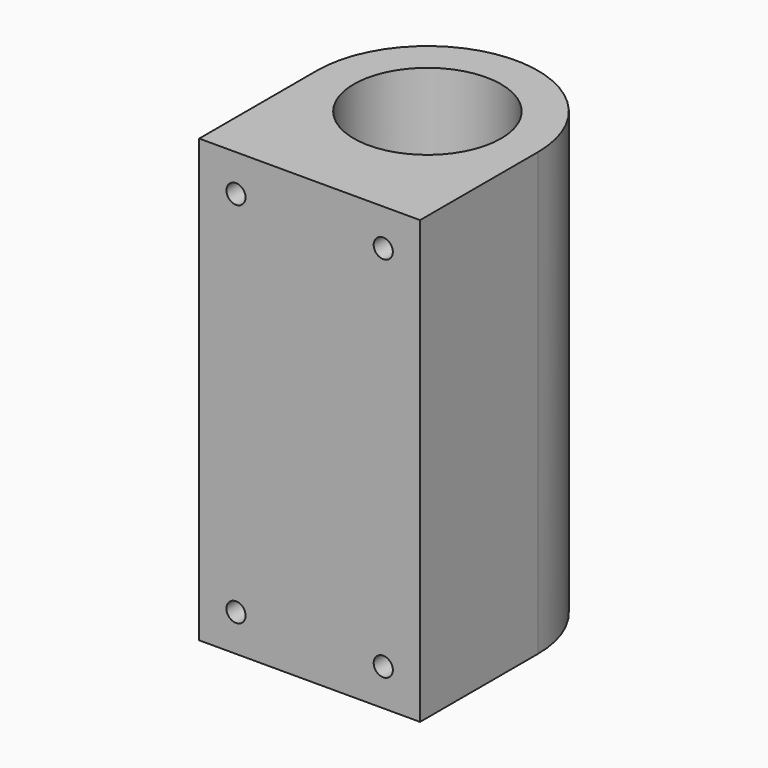
from build123d import *

# Parameters (mm, degrees)
F1_DEPTH = 38.1
F2_R     = 1.651
F3_DEPTH = 12.7


with BuildPart() as f1:
    # F0 (on Top) → F1 (new body, symmetric)
    with BuildSketch(Plane.XY):
        with BuildLine():
            Line((12.7, 0), (19.05, 0))
            ThreePointArc((19.05, 0), (0, 19.05), (-19.05, 0))
            Line((-19.05, 0), (-12.7, 0))
            ThreePointArc((-12.7, 0), (0, 12.7), (12.7, 0))
        make_face()
        with BuildLine():
            Line((19.05, -25.4), (19.05, 0))
            ThreePointArc((19.05, 0), (0, -19.05), (-19.05, 0))
            Line((-19.05, 0), (-19.05, -25.4))
            Line((-19.05, -25.4), (19.05, -25.4))
        make_face()
        with BuildLine():
            ThreePointArc((-19.05, 0), (0, -19.05), (19.05, 0))
            Line((19.05, 0), (12.7, 0))
            ThreePointArc((12.7, 0), (0, -12.7), (-12.7, 0))
            Line((-12.7, 0), (-19.05, 0))
        make_face()
        with BuildLine():
            Line((19.05, -25.4), (19.05, 0))
            ThreePointArc((19.05, 0), (0, -19.05), (-19.05, 0))
            Line((-19.05, 0), (-19.05, -25.4))
            Line((-19.05, -25.4), (19.05, -25.4))
        make_face()
    extrude(amount=F1_DEPTH, both=True)

    # F2 (on face) → F3 (cut)
    with BuildSketch(Plane.XZ.offset(25.4)):
        with Locations((12.7, 31.75)):
            Circle(F2_R)
        with Locations((-12.7, 31.75)):
            Circle(F2_R)
        with Locations((-12.7, -31.75)):
            Circle(F2_R)
        with Locations((12.7, -31.75)):
            Circle(F2_R)
    extrude(amount=-F3_DEPTH, mode=Mode.SUBTRACT)


solid = f1.part
